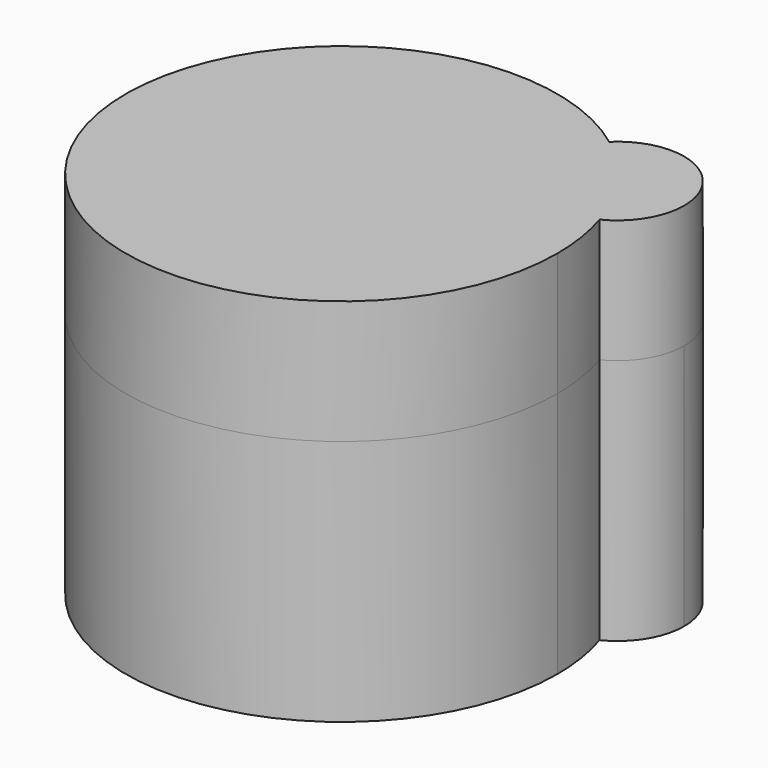
from build123d import *

# Parameters (mm, degrees)
F1_DEPTH = 50.8
F2_DEPTH = 25.4


with BuildPart() as f1:
    # F0 (on Top) → F1 (new body)
    with BuildSketch(Plane.XY):
        with BuildLine():
            ThreePointArc((14.395446, 40.788253), (-51.991149, -14.609678), (32.160741, 5.254113))
            ThreePointArc((32.160741, 5.254113), (31.636915, 12.055779), (30.077792, 18.697027))
            ThreePointArc((30.077792, 18.697027), (12.782331, 23.031133), (14.395446, 40.788253))
        make_face()
        with BuildLine():
            ThreePointArc((14.395446, 40.788253), (12.782331, 23.031133), (30.077792, 18.697027))
            ThreePointArc((30.077792, 18.697027), (23.961868, 30.967377), (14.395446, 40.788253))
        make_face()
        with BuildLine():
            ThreePointArc((14.395446, 40.788253), (23.961868, 30.967377), (30.077792, 18.697027))
            ThreePointArc((30.077792, 18.697027), (35.619821, 23.752245), (37.671937, 30.967377))
            ThreePointArc((37.671937, 30.967377), (29.291488, 43.599129), (14.395446, 40.788253))
        make_face()
    extrude(amount=F1_DEPTH)

    # F1_face (on face) → F2 (join)
    with BuildSketch(Plane(origin=(-10.296356, 6.647798, 50.8), x_dir=(1, 0, 0), z_dir=(0, 0, 1))):
        with BuildLine():
            ThreePointArc((24.691803, 34.140454), (-41.694793, -21.257476), (42.457097, -1.393685))
            ThreePointArc((42.457097, -1.393685), (41.933272, 5.40798), (40.374148, 12.049229))
            ThreePointArc((40.374148, 12.049229), (45.437761, 32.255823), (24.691803, 34.140454))
        make_face()
        with BuildLine():
            ThreePointArc((40.374148, 12.049229), (41.933272, 5.40798), (42.457097, -1.393685))
            ThreePointArc((42.457097, -1.393685), (-41.694793, -21.257476), (24.691803, 34.140454))
            ThreePointArc((24.691803, 34.140454), (45.437761, 32.255823), (40.374148, 12.049229))
        make_face()
    extrude(amount=F2_DEPTH)


solid = f1.part
